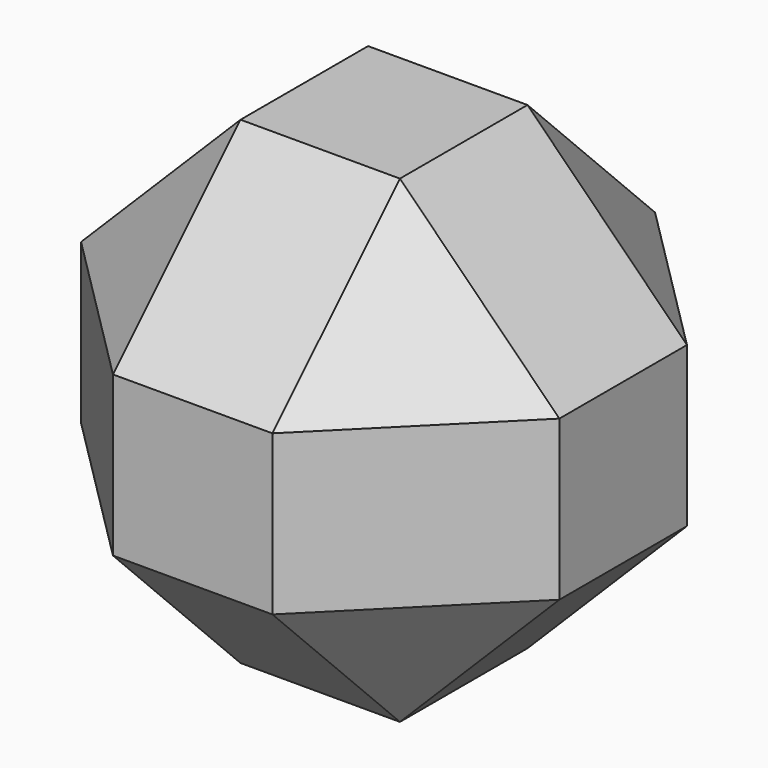
from build123d import *

# Parameters (mm, degrees)
F1_DEPTH = 76.2
F2_SIZE  = 25.4


with BuildPart() as f1:
    # F0 (on Top) → F1 (new body)
    with BuildSketch(Plane.XY):
        Polygon((38.1, -38.1), (0, 0), (0, -76.2), align=None)
        Polygon((76.2, 0), (0, 0), (38.1, -38.1), align=None)
        Polygon((76.2, -76.2), (76.2, 0), (38.1, -38.1), align=None)
        Polygon((38.1, -38.1), (0, -76.2), (76.2, -76.2), align=None)
    extrude(amount=F1_DEPTH)

    # F2
    f2_edges = [f1.edges().sort_by_distance(p)[0] for p in [
        (38.1, -76.2, 76.2),
        (38.1, 0, 76.2),
        (76.2, -76.2, 38.1),
        (76.2, 0, 38.1),
        (76.2, -38.1, 0),
        (76.2, -38.1, 76.2),
        (0, -76.2, 38.1),
        (38.1, -76.2, 0),
        (0, -38.1, 0),
        (38.1, 0, 0),
        (0, 0, 38.1),
        (0, -38.1, 76.2),
    ]]
    chamfer(f2_edges, length=F2_SIZE)


solid = f1.part
